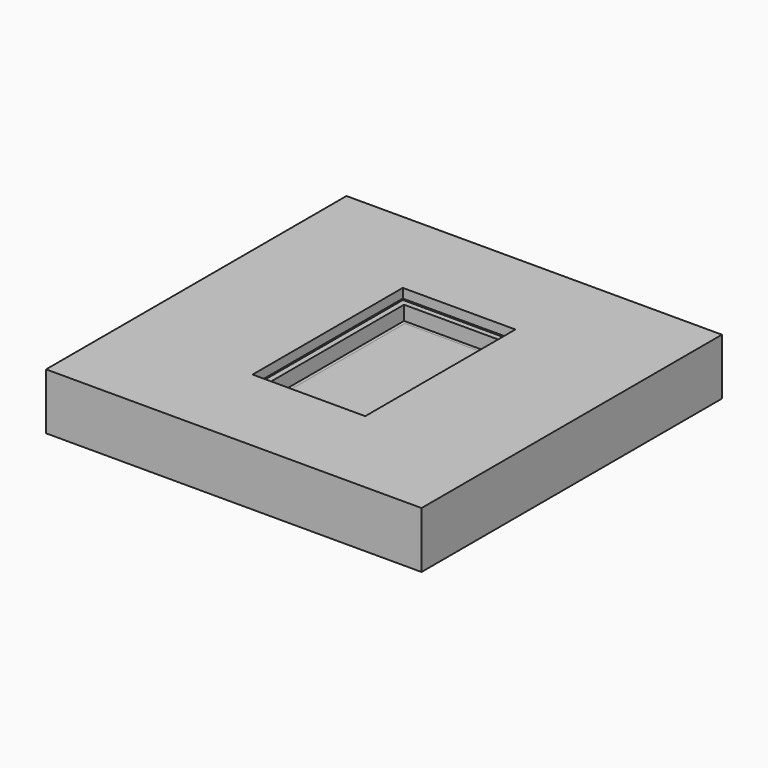
from build123d import *

# Parameters (mm, degrees)
F0_W      = 600
F0_H      = 1000
F0_W_2    = 585
F0_H_2    = 985
F1_DEPTH  = 48
F2_W      = 584.999994
F2_H      = 985
F2_W_2    = 486.999994
F2_H_2    = 887
F3_DEPTH  = 24
F4_W      = 584.999994
F4_H      = 985
F4_W_2    = 486.999994
F4_H_2    = 887
F5_DEPTH  = 12
F6_W      = 526.000005
F6_H      = 925
F7_DEPTH  = 25
F6_W_2    = 586.000005
F6_H_2    = 985
F9_DEPTH  = 24
F10_W     = 525.151242
F10_H     = 924.204456
F10_W_2   = 489
F10_H_2   = 887
F11_DEPTH = 12
F12_DEPTH = 100
F13_W     = 2000
F13_H     = 2000
F13_W_2   = 586.000006
F13_H_2   = 985
F14_DEPTH = 100
F15_W     = 2000
F15_H     = 2000
F15_W_2   = 600
F15_H_2   = 1000
F16_DEPTH = 150
F17_DEPTH = 24


with BuildPart() as f1:
    # F0 (on Top) → F1 (new body, symmetric)
    with BuildSketch(Plane.XY):
        Rectangle(F0_W, F0_H)
        Rectangle(F0_W_2, F0_H_2, mode=Mode.SUBTRACT)
    extrude(amount=F1_DEPTH, both=True)


with BuildPart() as f3:
    # F2 (on Top) → F3 (new body, symmetric)
    with BuildSketch(Plane.XY):
        with Locations((-3e-06, 0)):
            Rectangle(F2_W, F2_H)
        with Locations((-3e-06, 0)):
            Rectangle(F2_W_2, F2_H_2, mode=Mode.SUBTRACT)
    extrude(amount=F3_DEPTH, both=True)


with BuildPart() as f5:
    # F4 (on Top) → F5 (new body, symmetric)
    with BuildSketch(Plane.XY):
        with Locations((5.945058, -5.931342)):
            Rectangle(F4_W, F4_H)
        with Locations((5.945058, -5.931342)):
            Rectangle(F4_W_2, F4_H_2, mode=Mode.SUBTRACT)
    extrude(amount=F5_DEPTH, both=True)


with BuildPart() as f7:
    # F6 (on Top) → F7 (new body)
    with BuildSketch(Plane.XY):
        with Locations((1.748123, -2.514053)):
            Rectangle(F6_W, F6_H)
    extrude(amount=F7_DEPTH)


with BuildPart() as f9:
    # F6 (on Top) → F9 (new body)
    with BuildSketch(Plane.XY):
        with Locations((1.748122, -2.514053)):
            Rectangle(F6_W_2, F6_H_2)
        with Locations((1.748123, -2.514053)):
            Rectangle(F6_W, F6_H, mode=Mode.SUBTRACT)
    extrude(amount=F9_DEPTH)


with BuildPart() as f11:
    # F10 (on face) → F11 (new body, symmetric)
    with BuildSketch(Plane.XY):
        with Locations((1.323741, -2.911825)):
            Rectangle(F10_W, F10_H)
        with Locations((0.399362, -3.309597)):
            Rectangle(F10_W_2, F10_H_2, mode=Mode.SUBTRACT)
    extrude(amount=F11_DEPTH, both=True)


with BuildPart() as f12:
    # F6 (on Top) → F12 (new body, symmetric)
    with BuildSketch(Plane.XY):
        with Locations((1.748122, -2.514053)):
            Rectangle(F6_W_2, F6_H_2)
        with Locations((1.748123, -2.514053)):
            Rectangle(F6_W, F6_H, mode=Mode.SUBTRACT)
    extrude(amount=F12_DEPTH, both=True)


with BuildPart() as f14:
    # F13 (on Top) → F14 (new body, symmetric)
    with BuildSketch(Plane.XY):
        Rectangle(F13_W, F13_H)
        Rectangle(F13_W_2, F13_H_2, mode=Mode.SUBTRACT)
    extrude(amount=F14_DEPTH, both=True)


with BuildPart() as f16:
    # F15 (on Top) → F16 (new body, symmetric)
    with BuildSketch(Plane.XY):
        Rectangle(F15_W, F15_H)
        Rectangle(F15_W_2, F15_H_2, mode=Mode.SUBTRACT)
    extrude(amount=F16_DEPTH, both=True)


with BuildPart() as f17:
    # F2 (on Top) → F17 (new body, symmetric)
    with BuildSketch(Plane.XY):
        with Locations((-3e-06, 0)):
            Rectangle(F2_W_2, F2_H_2)
    extrude(amount=F17_DEPTH, both=True)


solid = Compound([f1.part, f3.part, f5.part, f9.part, f11.part, f12.part, f14.part, f16.part, f17.part])
